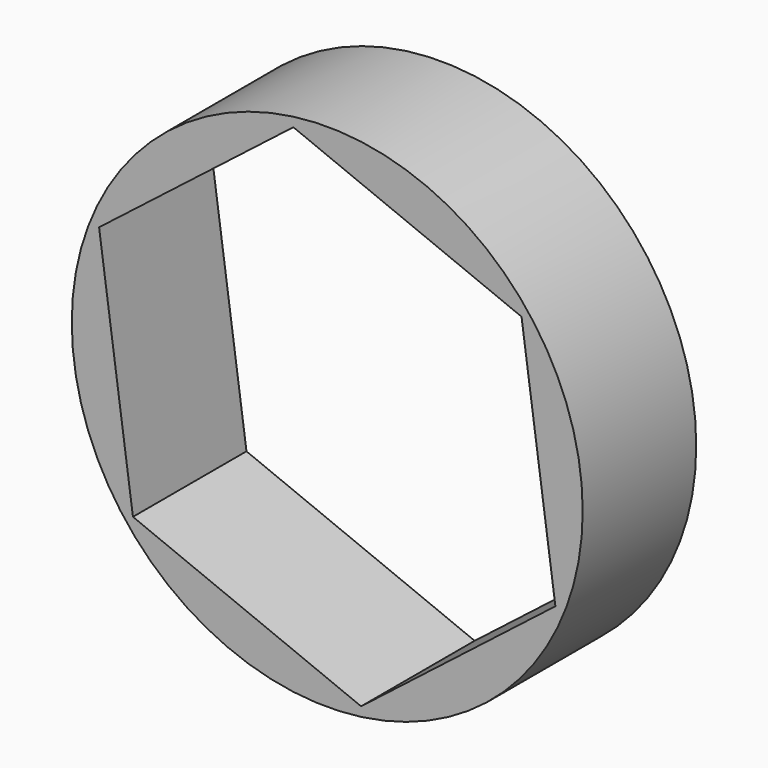
from build123d import *

# Parameters (mm, degrees)
F0_R     = 18
F1_DEPTH = 10


with BuildPart() as f1:
    # F0 (on Front) → F1 (new body)
    with BuildSketch(Plane.XZ):
        Circle(F0_R)
        Polygon((-16.075068, 6.526333), (-2.385564, 17.184584), (13.689504, 10.658251), (16.075068, -6.526333), (2.385564, -17.184584), (-13.689504, -10.658251), align=None, mode=Mode.SUBTRACT)
    extrude(amount=-F1_DEPTH)


solid = f1.part
